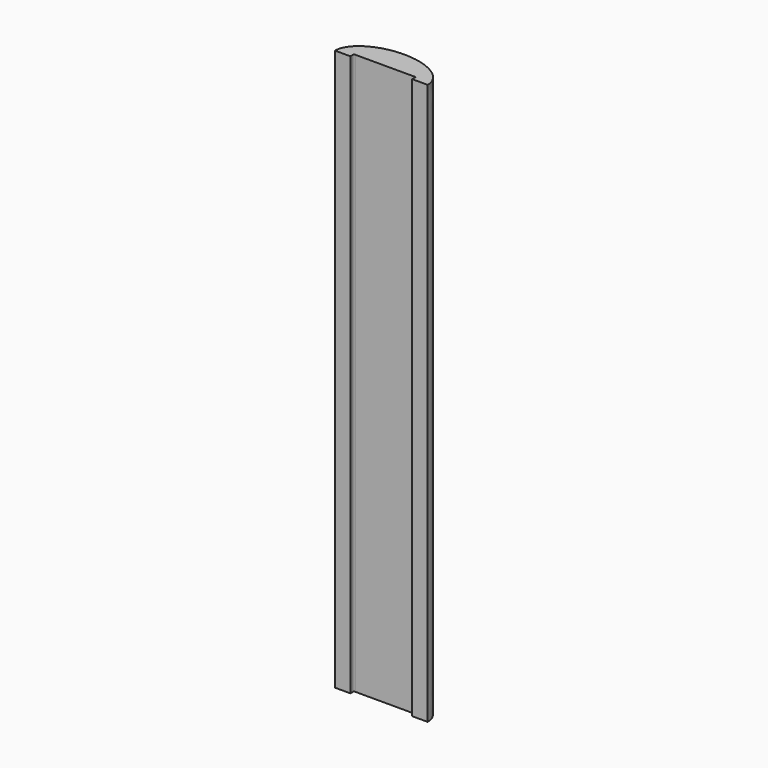
from build123d import *

# Parameters (mm, degrees)
F4_DEPTH = 127


with BuildPart() as f2:
    # F2: sweep along a path in F1
    with BuildLine(Plane.YZ) as f2_path:
        Line((0, 0), (0, -127))
    # F0 (on Top) → F2 (sweep)
    with BuildSketch(Plane.XY):
        with BuildLine():
            Line((-10.5, 0), (10.5, 0))
            add(Edge.make_bspline(
                [(10.5, 0), (10.5, 6.5), (0, 6.5), (-10.5, 6.5), (-10.5, 0)],
                knots=[3.1415926536, 3.1415926536, 3.1415926536, 4.7123889804, 4.7123889804, 6.2831853072, 6.2831853072, 6.2831853072], degree=2, weights=[1, 0.7071067812, 1, 0.7071067812, 1]))
        make_face()
    sweep(path=f2_path.line)

    # F3 (on face) → F4 (cut)
    with BuildSketch(Plane.XY):
        with BuildLine():
            Line((-7, 0), (0, 0))
            Line((0, 0), (7, 0))
            Line((7, 0), (7, 0.8))
            ThreePointArc((7, 0.8), (6.9414213562, 0.9414213562), (6.8, 1))
            Line((6.8, 1), (-6.8, 1))
            ThreePointArc((-6.8, 1), (-6.9414213562, 0.9414213562), (-7, 0.8))
            Line((-7, 0.8), (-7, 0))
        make_face()
    extrude(amount=-F4_DEPTH, mode=Mode.SUBTRACT)


solid = f2.part
